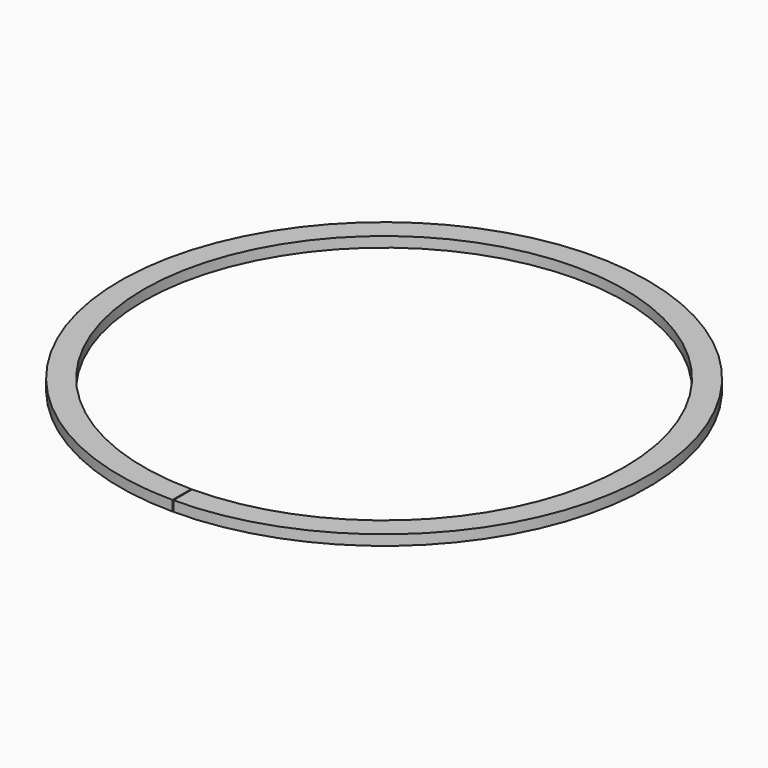
from build123d import *

# Parameters (mm, degrees)
F0_W          = 4
F0_H          = 1.75
F1_ANGLE_BACK = 179.9
F1_ANGLE      = 359.8


with BuildPart() as f1:
    # F0 (on Right) → F1 (revolve)
    with BuildSketch(Plane.YZ, mode=Mode.PRIVATE) as f1_sk:
        with Locations((43, 0.875)):
            Rectangle(F0_W, F0_H)
    revolve(f1_sk.sketch.rotate(Axis((0, 0, 10), (0, 0, 1)), -F1_ANGLE_BACK), axis=Axis((0, 0, 10), (0, 0, 1)), revolution_arc=F1_ANGLE)


solid = f1.part
